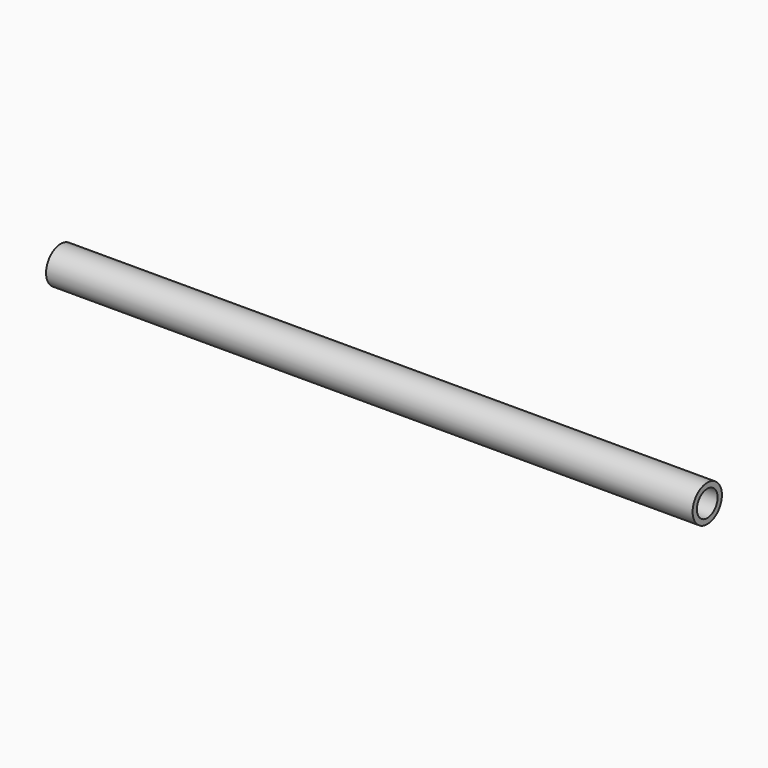
from build123d import *

# Parameters (mm, degrees)
F0_R     = 10.795
F1_DEPTH = 381
F2_T     = -3.175


with BuildPart() as f1:
    # F0 (on Right) → F1 (new body)
    with BuildSketch(Plane.YZ):
        Circle(F0_R)
    extrude(amount=F1_DEPTH)

    # F2
    f2_openings = [f1.faces().sort_by_distance(p)[0] for p in [
        (381, 0, 0),
        (0, 0, 0),
    ]]
    offset(amount=F2_T, openings=f2_openings)


solid = f1.part
